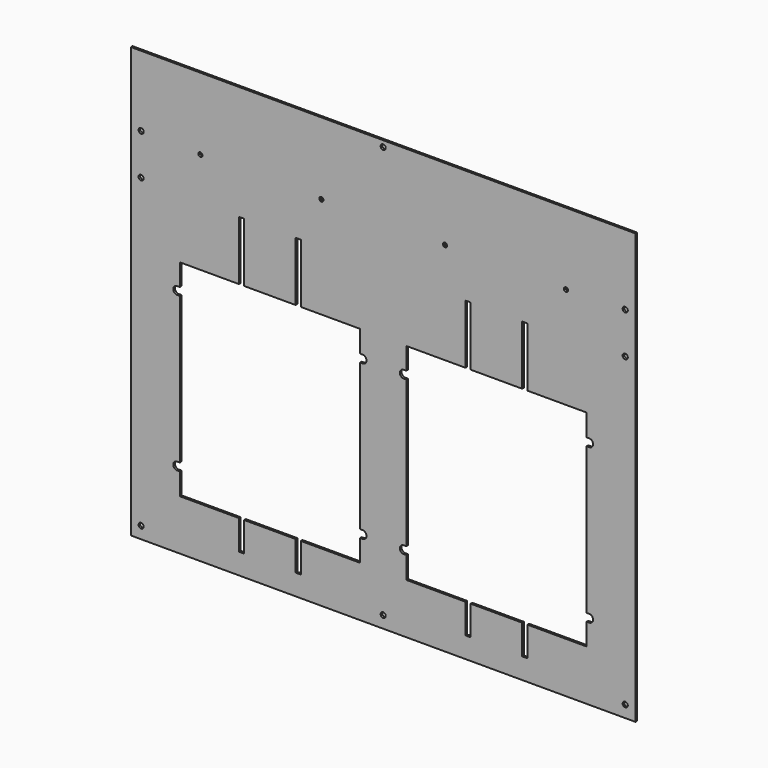
from build123d import *

# Parameters (mm, degrees)
F0_W     = 622.3
F0_H     = 530.225
F0_R     = 3.175
F1_DEPTH = 1.27
F2_W     = 6.35
F2_H     = 73.025
F2_H_2   = 36.5125
F2_R     = 2.579688
F3_DEPTH = 2.541


with BuildPart() as f1:
    # F0 (on Front) → F1 (new body, symmetric)
    with BuildSketch(Plane.XZ):
        Rectangle(F0_W, F0_H)
        with Locations((-298.45, -250.3805)):
            Circle(F0_R, mode=Mode.SUBTRACT)
        with BuildLine():
            Line((-250.825, 24.1935), (-250.825, 51.1175))
            Line((-250.825, 51.1175), (-28.575, 51.1175))
            Line((-28.575, 51.1175), (-28.575, 24.1935))
            Line((-28.575, 24.1935), (-25.4, 24.1935))
            ThreePointArc((-25.4, 24.1935), (-20.574, 19.3675), (-25.4, 14.5415))
            Line((-25.4, 14.5415), (-28.575, 14.5415))
            Line((-28.575, 14.5415), (-28.575, -166.3065))
            Line((-28.575, -166.3065), (-25.4, -166.3065))
            ThreePointArc((-25.4, -166.3065), (-20.574, -171.1325), (-25.4, -175.9585))
            Line((-25.4, -175.9585), (-28.575, -175.9585))
            Line((-28.575, -175.9585), (-28.575, -202.8825))
            Line((-28.575, -202.8825), (-250.825, -202.8825))
            Line((-250.825, -202.8825), (-250.825, -175.9585))
            Line((-250.825, -175.9585), (-254, -175.9585))
            ThreePointArc((-254, -175.9585), (-258.826, -171.1325), (-254, -166.3065))
            Line((-254, -166.3065), (-250.825, -166.3065))
            Line((-250.825, -166.3065), (-250.825, 14.5415))
            Line((-250.825, 14.5415), (-254, 14.5415))
            ThreePointArc((-254, 14.5415), (-258.826, 19.3675), (-254, 24.1935))
            Line((-254, 24.1935), (-250.825, 24.1935))
        make_face(mode=Mode.SUBTRACT)
        with Locations((0, -250.3805)):
            Circle(F0_R, mode=Mode.SUBTRACT)
        with Locations((298.45, -250.3805)):
            Circle(F0_R, mode=Mode.SUBTRACT)
        with BuildLine():
            Line((28.575, -202.8825), (28.575, -175.9585))
            Line((28.575, -175.9585), (25.4, -175.9585))
            ThreePointArc((25.4, -175.9585), (20.574, -171.1325), (25.4, -166.3065))
            Line((25.4, -166.3065), (28.575, -166.3065))
            Line((28.575, -166.3065), (28.575, 14.5415))
            Line((28.575, 14.5415), (25.4, 14.5415))
            ThreePointArc((25.4, 14.5415), (20.574, 19.3675), (25.4, 24.1935))
            Line((25.4, 24.1935), (28.575, 24.1935))
            Line((28.575, 24.1935), (28.575, 51.1175))
            Line((28.575, 51.1175), (250.825, 51.1175))
            Line((250.825, 51.1175), (250.825, 24.1935))
            Line((250.825, 24.1935), (254, 24.1935))
            ThreePointArc((254, 24.1935), (258.826, 19.3675), (254, 14.5415))
            Line((254, 14.5415), (250.825, 14.5415))
            Line((250.825, 14.5415), (250.825, -166.3065))
            Line((250.825, -166.3065), (254, -166.3065))
            ThreePointArc((254, -166.3065), (258.826, -171.1325), (254, -175.9585))
            Line((254, -175.9585), (250.825, -175.9585))
            Line((250.825, -175.9585), (250.825, -202.8825))
            Line((250.825, -202.8825), (28.575, -202.8825))
        make_face(mode=Mode.SUBTRACT)
        with Locations((-298.45, 127.4445)):
            Circle(F0_R, mode=Mode.SUBTRACT)
        with Locations((-298.45, 178.2445)):
            Circle(F0_R, mode=Mode.SUBTRACT)
        with Locations((298.45, 127.4445)):
            Circle(F0_R, mode=Mode.SUBTRACT)
        with Locations((0, 257.6195)):
            Circle(F0_R, mode=Mode.SUBTRACT)
        with Locations((298.45, 178.2445)):
            Circle(F0_R, mode=Mode.SUBTRACT)
    extrude(amount=F1_DEPTH, both=True)

    # F2 (on face) → F3 (cut, through all)
    with BuildSketch(Plane.XZ.offset(1.27)):
        with Locations((-174.625, 87.63)):
            Rectangle(F2_W, F2_H)
        with Locations((-104.775, 87.63)):
            Rectangle(F2_W, F2_H)
        with Locations((-104.775, -221.13875)):
            Rectangle(F2_W, F2_H_2)
        with Locations((-174.625, -221.13875)):
            Rectangle(F2_W, F2_H_2)
        with Locations((104.775, 87.63)):
            Rectangle(F2_W, F2_H)
        with Locations((174.625, -221.13875)):
            Rectangle(F2_W, F2_H_2)
        with Locations((174.625, 87.63)):
            Rectangle(F2_W, F2_H)
        with Locations((104.775, -221.13875)):
            Rectangle(F2_W, F2_H_2)
        with Locations((225.425, 176.2125)):
            Circle(F2_R)
        with Locations((-225.425, 176.2125)):
            Circle(F2_R)
        with Locations((76.2, 176.2125)):
            Circle(F2_R)
        with Locations((-76.2, 176.2125)):
            Circle(F2_R)
    extrude(amount=-F3_DEPTH, mode=Mode.SUBTRACT)


solid = f1.part
